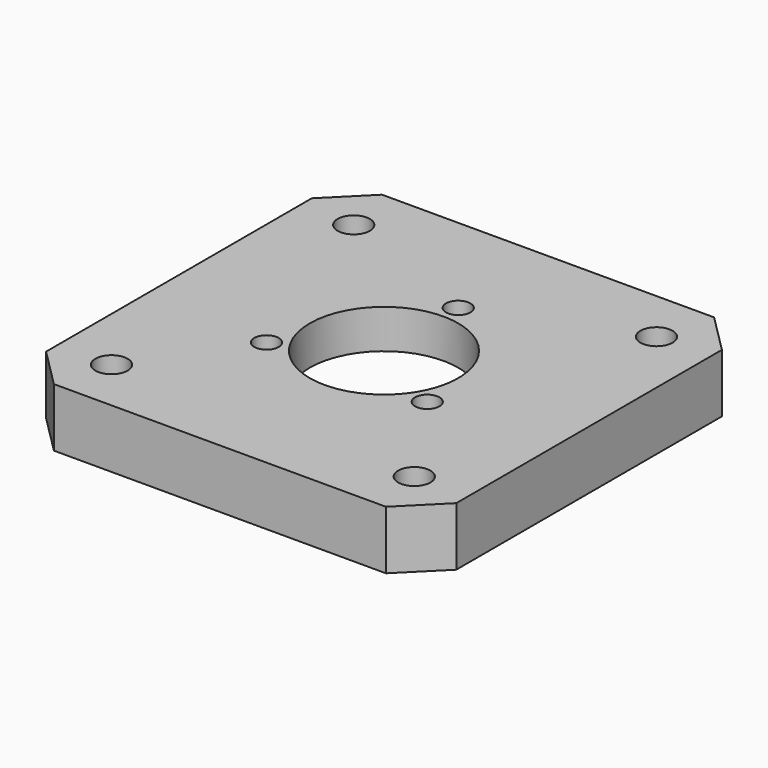
from build123d import *

# Parameters (mm, degrees)
SKETCH002_R      = 1.65
SKETCH002_R_2    = 1.25
SKETCH002_R_3    = 7.6
EXTRUDE001_DEPTH = 6
SKETCH003_R      = 11.8
POCKET001_DEPTH  = 2
POCKET002_DEPTH  = 3.5


with BuildPart() as part:
    # Sketch002 → Extrude001 (new body)
    with BuildSketch(Plane(origin=(0, -257.5, 260.94116), x_dir=(-1, 0, 0), z_dir=(0, 0, -1))):
        Polygon((278.411955, 248.765839), (312.411955, 248.765839), (316.411955, 244.765839), (316.411955, 210.765839), (312.411955, 206.765839), (278.411955, 206.765839), (274.411955, 210.765839), (274.411955, 244.765839), align=None)
        with Locations((279.911955, 243.265839)):
            Circle(SKETCH002_R, mode=Mode.SUBTRACT)
        with Locations((310.911955, 243.265839)):
            Circle(SKETCH002_R, mode=Mode.SUBTRACT)
        with Locations((310.911955, 212.265839)):
            Circle(SKETCH002_R, mode=Mode.SUBTRACT)
        with Locations((279.911955, 212.265839)):
            Circle(SKETCH002_R, mode=Mode.SUBTRACT)
        with Locations((295.411955, 237.265839)):
            Circle(SKETCH002_R_2, mode=Mode.SUBTRACT)
        with Locations((303.639196, 223.015839)):
            Circle(SKETCH002_R_2, mode=Mode.SUBTRACT)
        with Locations((287.184713, 223.015839)):
            Circle(SKETCH002_R_2, mode=Mode.SUBTRACT)
        with Locations((295.411955, 227.765839)):
            Circle(SKETCH002_R_3, mode=Mode.SUBTRACT)
    extrude(amount=-EXTRUDE001_DEPTH)


with BuildPart() as part_1:
    # Extrude001 placement: moved
    add(part.part.moved(Location((295.412, 29.7342, -218))))

    # Sketch003 → Pocket001 (cut)
    with BuildSketch(Plane(origin=(295.412, 29.7342, 42.94116), x_dir=(1, 0, 0), z_dir=(0, 0, -1))):
        with Locations((-295.411955, 29.734161)):
            Circle(SKETCH003_R)
    extrude(amount=-POCKET001_DEPTH, mode=Mode.SUBTRACT)

    # Sketch004 → Pocket002 (cut)
    with BuildSketch(Plane(origin=(295.412, 29.7342, 42.94116), x_dir=(1, 0, 0), z_dir=(0, 0, -1))):
        Polygon((-313.811955, 43.559845), (-310.911955, 41.885529), (-308.011955, 43.559845), (-308.011955, 46.908477), (-310.911955, 48.582792), (-313.811955, 46.908477), align=None)
        Polygon((-279.911955, 41.885529), (-277.011955, 43.559845), (-277.011955, 46.908477), (-279.911955, 48.582792), (-282.811955, 46.908477), (-282.811955, 43.559845), align=None)
        Polygon((-279.911955, 17.582792), (-282.811955, 15.908477), (-282.811955, 12.559845), (-279.911955, 10.885529), (-277.011955, 12.559845), (-277.011955, 15.908477), align=None)
        Polygon((-310.911955, 17.582792), (-313.811955, 15.908477), (-313.811955, 12.559845), (-310.911955, 10.885529), (-308.011955, 12.559845), (-308.011955, 15.908477), align=None)
    extrude(amount=-POCKET002_DEPTH, mode=Mode.SUBTRACT)


solid = part_1.part
